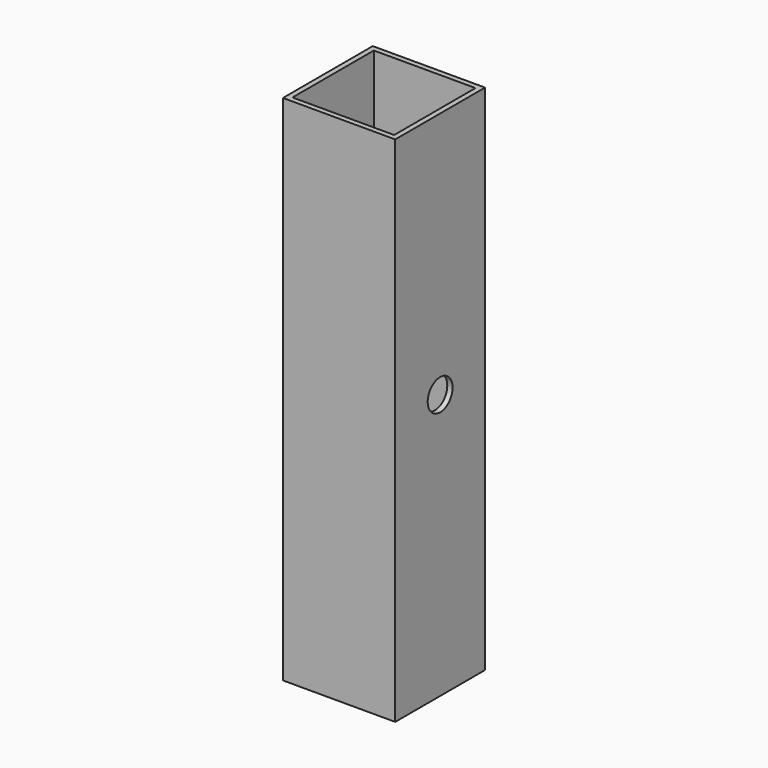
from build123d import *

# Parameters (mm, degrees)
F0_W     = 63.5
F0_H     = 63.5
F0_W_2   = 57.5
F0_H_2   = 57.5
F1_DEPTH = 290
F2_R     = 8.791749
F3_DEPTH = 25


with BuildPart() as f1:
    # F0 (on Top) → F1 (new body)
    with BuildSketch(Plane.XY):
        with Locations((2.03071, 3.669284)):
            Rectangle(F0_W, F0_H)
        with Locations((2.03071, 3.669284)):
            Rectangle(F0_W_2, F0_H_2, mode=Mode.SUBTRACT)
    extrude(amount=F1_DEPTH)

    # F2 (on face) → F3 (cut)
    with BuildSketch(Plane.YZ.offset(33.78071)):
        with Locations((3.669284, 150)):
            Circle(F2_R)
    extrude(amount=-F3_DEPTH, mode=Mode.SUBTRACT)


solid = f1.part
